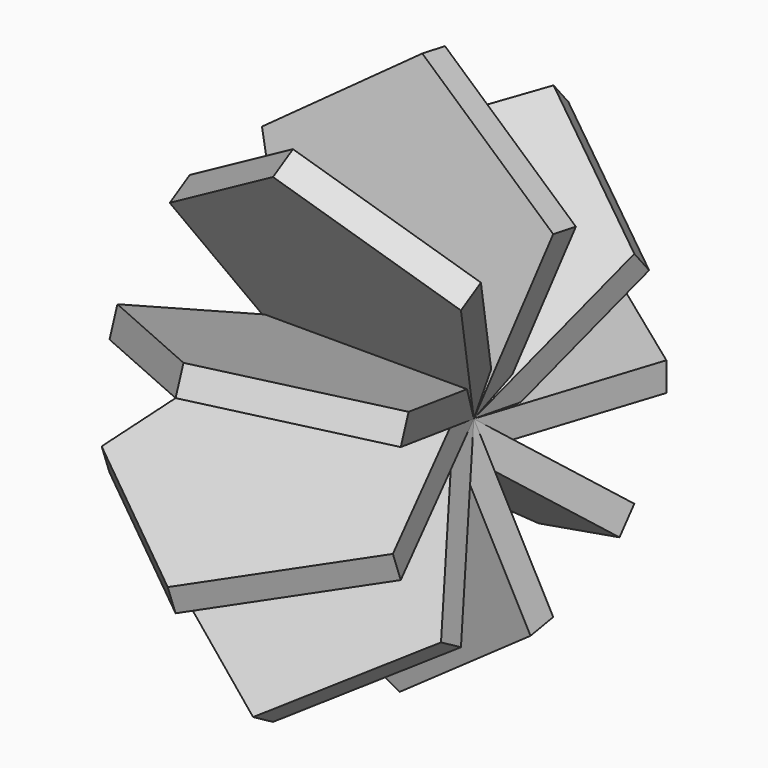
from build123d import *

# Parameters (mm, degrees)
F1_DEPTH = 25.4
F2_COUNT = 9


with BuildPart() as f1:
    # F0 (on Top) → F1 (new body)
    with BuildSketch(Plane.XY):
        Polygon((79.405239, -109.291935), (128.480375, 41.745805), (0, 135.092261), (-128.480375, 41.745805), (-79.405239, -109.291935), align=None)
    extrude(amount=F1_DEPTH)


with BuildPart() as f2_1:
    # F2: instance of F1
    add(f1.part.rotate(Axis((0, -109.291935, 25.4), (1, 0, 0)), 1 * 360 / F2_COUNT))


with BuildPart() as f2_2:
    # F2: instance of F1
    add(f1.part.rotate(Axis((0, -109.291935, 25.4), (1, 0, 0)), 2 * 360 / F2_COUNT))


with BuildPart() as f2_3:
    # F2: instance of F1
    add(f1.part.rotate(Axis((0, -109.291935, 25.4), (1, 0, 0)), 3 * 360 / F2_COUNT))


with BuildPart() as f2_4:
    # F2: instance of F1
    add(f1.part.rotate(Axis((0, -109.291935, 25.4), (1, 0, 0)), 4 * 360 / F2_COUNT))


with BuildPart() as f2_5:
    # F2: instance of F1
    add(f1.part.rotate(Axis((0, -109.291935, 25.4), (1, 0, 0)), 5 * 360 / F2_COUNT))


with BuildPart() as f2_6:
    # F2: instance of F1
    add(f1.part.rotate(Axis((0, -109.291935, 25.4), (1, 0, 0)), 6 * 360 / F2_COUNT))


with BuildPart() as f2_7:
    # F2: instance of F1
    add(f1.part.rotate(Axis((0, -109.291935, 25.4), (1, 0, 0)), 7 * 360 / F2_COUNT))


with BuildPart() as f2_8:
    # F2: instance of F1
    add(f1.part.rotate(Axis((0, -109.291935, 25.4), (1, 0, 0)), 8 * 360 / F2_COUNT))


solid = Compound([f1.part, f2_1.part, f2_2.part, f2_3.part, f2_4.part, f2_5.part, f2_6.part, f2_7.part, f2_8.part])
